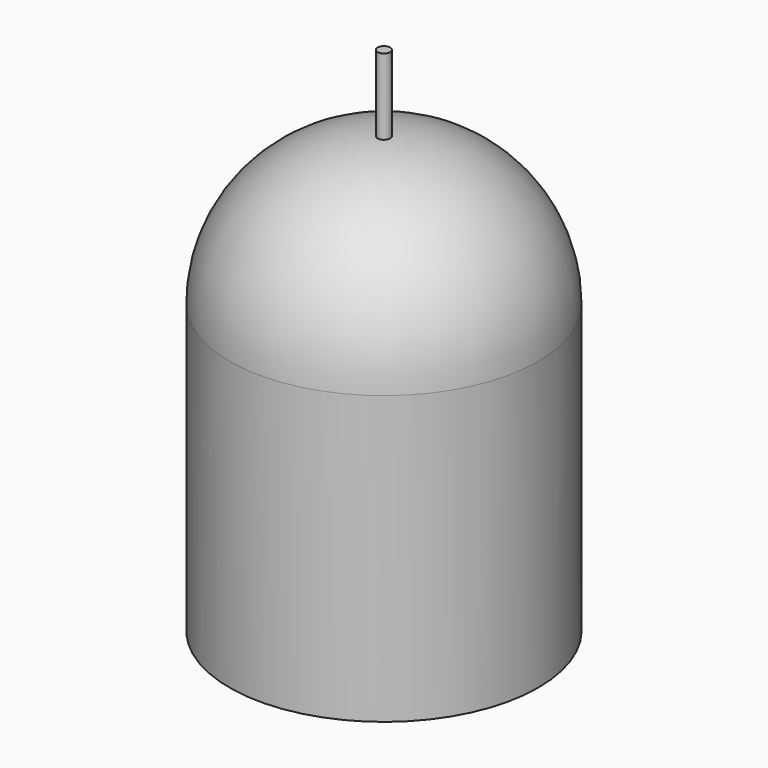
from build123d import *

# Parameters (mm, degrees)
F0_R      = 13.423157
F1_DEPTH  = 37.846
F2_R      = 12.877415
F1_FACE_R = 0.545742
F3_DEPTH  = 6.604


with BuildPart() as f1:
    # F0 (on Top) → F1 (new body)
    with BuildSketch(Plane.XY):
        Circle(F0_R)
        Circle(F0_R)
    extrude(amount=F1_DEPTH)

    # F2
    f2_edges = [f1.edges().sort_by_distance(p)[0] for p in [
        (-13.423157, 0, 37.846),
    ]]
    fillet(f2_edges, radius=F2_R)

    # F1_face (on face) → F3 (join)
    with BuildSketch(Plane.XY.offset(37.846)):
        Circle(F1_FACE_R)
    extrude(amount=F3_DEPTH)


solid = f1.part
